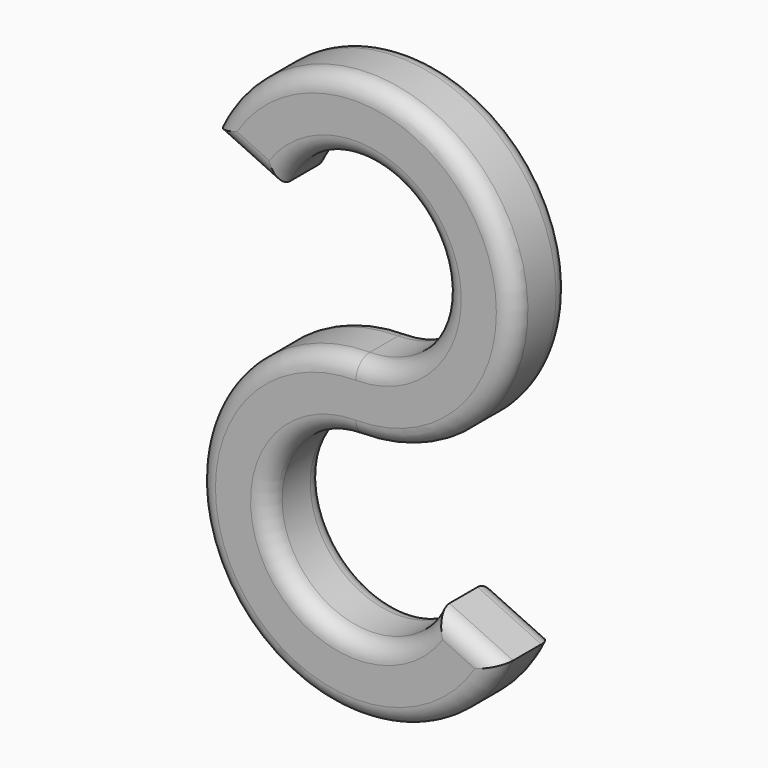
from build123d import *

# Parameters (mm, degrees)
F1_DEPTH = 3.175
F2_R     = 0.79375


with BuildPart() as f1:
    # F0 (on Front) → F1 (new body)
    with BuildSketch(Plane.XZ):
        with BuildLine():
            ThreePointArc((-3.596909, 12.789766), (3.34721, 13.244908), (0, 7.14375))
            ThreePointArc((0, 7.14375), (-6.024978, -3.838334), (6.474436, -3.019079))
            Line((6.474436, -3.019079), (3.596909, -1.677266))
            ThreePointArc((3.596909, -1.677266), (-3.34721, -2.132408), (0, 3.96875))
            ThreePointArc((0, 3.96875), (6.024978, 14.950834), (-6.474436, 14.131579))
            Line((-6.474436, 14.131579), (-3.596909, 12.789766))
        make_face()
    extrude(amount=F1_DEPTH)

    # F2
    f2_edges = [f1.edges().sort_by_distance(p)[0] for p in [
        (-5.035673, -3.175, 13.460673),
        (3.34721, -3.175, 13.244908),
        (-6.024978, -3.175, -3.838334),
        (5.035673, -3.175, -2.348173),
        (-3.34721, -3.175, -2.132408),
        (6.024978, -3.175, 14.950834),
        (-5.035673, 0, 13.460673),
        (3.34721, 0, 13.244908),
        (-6.024978, 0, -3.838334),
        (5.035673, 0, -2.348173),
        (-3.34721, 0, -2.132408),
        (6.024978, 0, 14.950834),
    ]]
    fillet(f2_edges, radius=F2_R)


solid = f1.part
